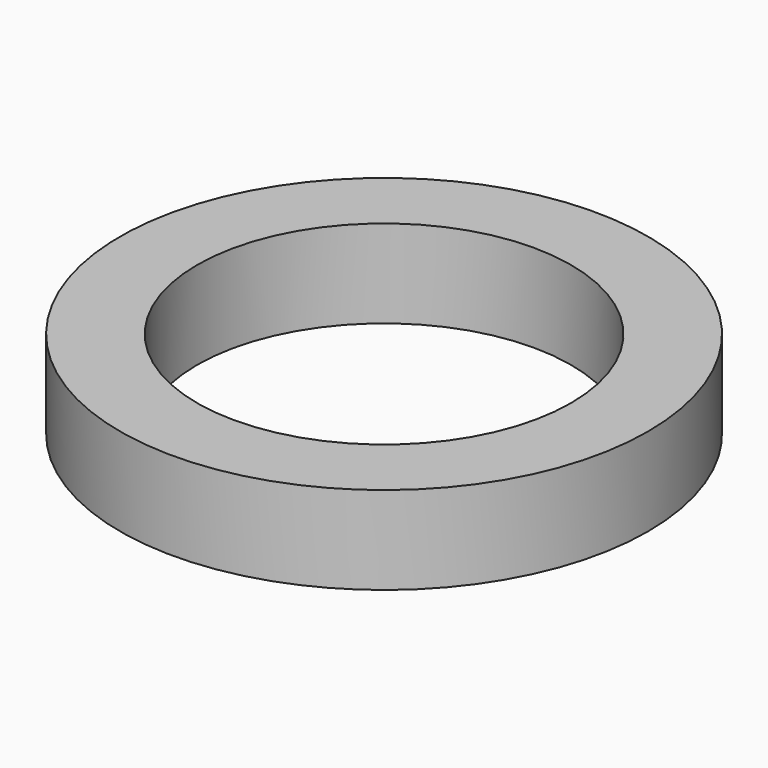
from build123d import *

# Parameters (mm, degrees)
SKETCH_R   = 60
SKETCH_R_2 = 42.5
PAD_DEPTH  = 20


with BuildPart() as part:
    # Sketch → Pad (new body)
    with BuildSketch(Plane.XY):
        Circle(SKETCH_R)
        Circle(SKETCH_R_2, mode=Mode.SUBTRACT)
    extrude(amount=PAD_DEPTH)


solid = part.part
